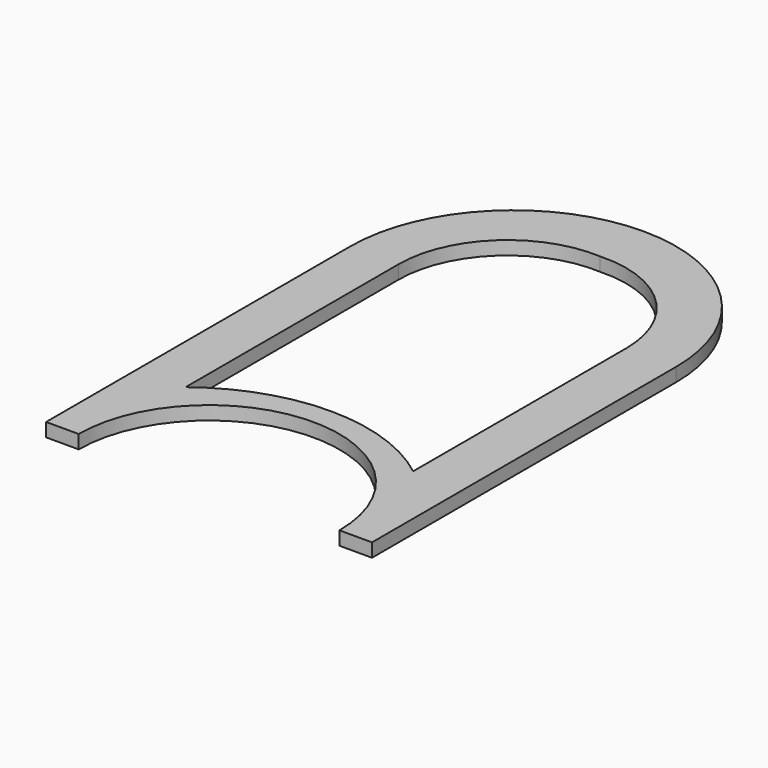
from build123d import *

# Parameters (mm, degrees)
F1_DEPTH = 25


with BuildPart() as f1:
    # F0 (on Top) → F1 (new body)
    with BuildSketch(Plane.XY):
        with BuildLine():
            Line((-88.936575, 490.166194), (-88.936575, -209.833806))
            Line((-88.936575, -209.833806), (-28.936575, -209.833806))
            ThreePointArc((-28.936575, -209.833806), (211.063425, 30.166194), (451.063425, -209.833806))
            Line((451.063425, -209.833806), (511.063425, -209.833806))
            Line((511.063425, -209.833806), (511.063425, 490.166194))
            ThreePointArc((511.063425, 490.166194), (423.19546, 702.298228), (211.063425, 790.166194))
            ThreePointArc((211.063425, 790.166194), (-1.068609, 702.298228), (-88.936575, 490.166194))
        make_face()
        with BuildLine():
            ThreePointArc((0, 490.166194), (62.434461, 635.647461), (211.063425, 690.166194))
            ThreePointArc((211.063425, 690.166194), (357.637827, 634.46583), (418.990907, 490.166194))
            Line((418.990907, 490.166194), (418.990907, 0))
            ThreePointArc((418.990907, 0), (209.495453, 72.209681), (0, 0))
            Line((0, 0), (0, 490.166194))
        make_face(mode=Mode.SUBTRACT)
    extrude(amount=F1_DEPTH)


solid = f1.part
